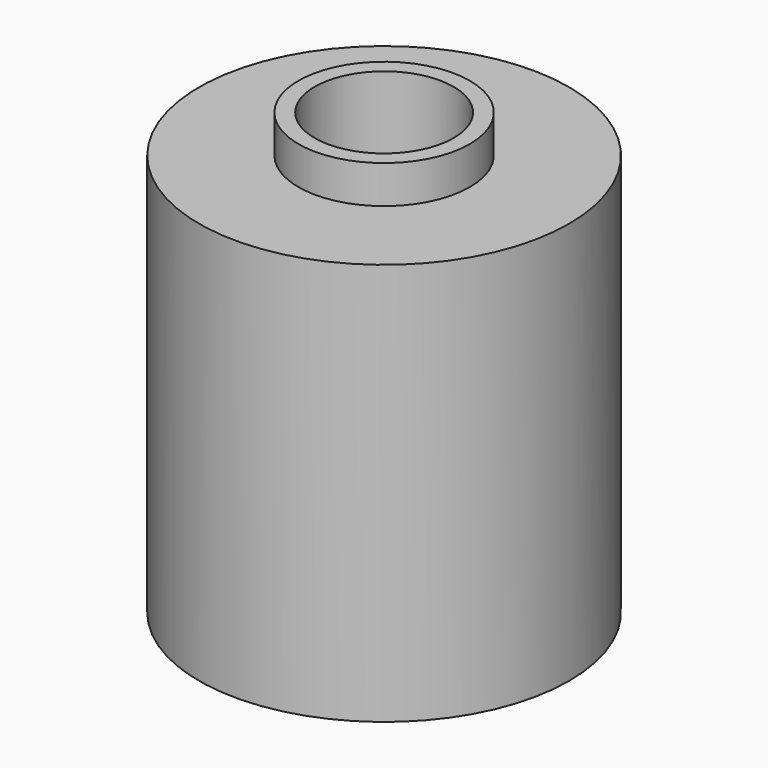
from build123d import *

# Parameters (mm, degrees)
F0_R     = 3
F0_R_2   = 2
F1_DEPTH = 2
F2_R     = 4.75
F2_R_2   = 3.85
F3_DEPTH = 24.4
F2_R_3   = 3
F4_DEPTH = 10
F2_R_4   = 10.25
F5_DEPTH = 22.3


with BuildPart() as f1:
    # F0 (on Top) → F1 (new body)
    with BuildSketch(Plane.XY):
        Circle(F0_R)
        Circle(F0_R_2, mode=Mode.SUBTRACT)
    extrude(amount=F1_DEPTH)


with BuildPart() as f3:
    # F2 (on face) → F3 (new body)
    with BuildSketch(Plane.XY.offset(2)):
        Circle(F2_R)
        Circle(F2_R_2, mode=Mode.SUBTRACT)
    extrude(amount=F3_DEPTH)


with BuildPart() as f4:
    # F2 (on face) → F4 (new body)
    with BuildSketch(Plane.XY.offset(2)):
        Circle(F2_R_2)
        Circle(F2_R_3, mode=Mode.SUBTRACT)
    extrude(amount=F4_DEPTH)


with BuildPart() as f5:
    # F2 (on face) → F5 (new body)
    with BuildSketch(Plane.XY.offset(2)):
        Circle(F2_R_4)
        Circle(F2_R, mode=Mode.SUBTRACT)
    extrude(amount=F5_DEPTH)


solid = Compound([f1.part, f3.part, f4.part, f5.part])
